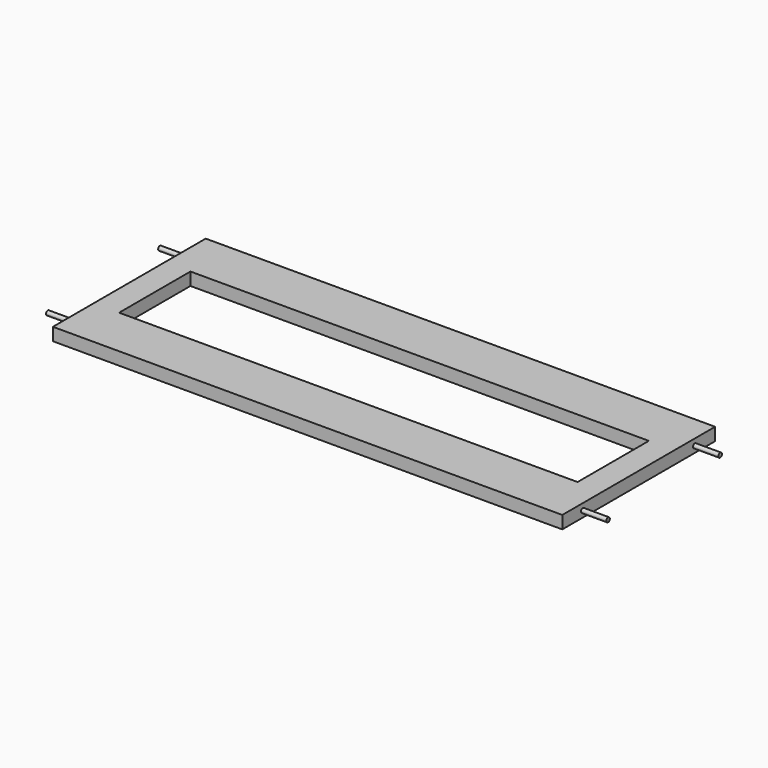
from build123d import *

# Parameters (mm, degrees)
SKETCH013_W             = 400
SKETCH013_H             = 150
SKETCH013_W_2           = 360
SKETCH013_H_2           = 70
PAD013_DEPTH            = 10
CYLINDER013_R           = 1.7
CYLINDER013_DEPTH       = 20
CYLINDER013_PITCH_ANGLE = 90
CYLINDER015_R           = 1.7
CYLINDER015_DEPTH       = 20
CYLINDER015_PITCH_ANGLE = 90
CYLINDER016_R           = 1.7
CYLINDER016_DEPTH       = 20
CYLINDER016_PITCH_ANGLE = 90
CYLINDER017_R           = 1.7
CYLINDER017_DEPTH       = 20
CYLINDER017_PITCH_ANGLE = 90


with BuildPart() as pad013:
    # Sketch013 → Pad013 (new body)
    with BuildSketch(Plane(origin=(0, -10, 60), x_dir=(1, 0, 0), z_dir=(0, 0, 1))):
        Rectangle(SKETCH013_W, SKETCH013_H)
        Rectangle(SKETCH013_W_2, SKETCH013_H_2, mode=Mode.SUBTRACT)
    extrude(amount=PAD013_DEPTH)


with BuildPart() as cylinder013:
    # Cylinder013 → Cylinder013 (new body)
    with BuildSketch(Plane.XY):
        Circle(CYLINDER013_R)
    extrude(amount=CYLINDER013_DEPTH)


with BuildPart() as cylinder013_1:
    # Cylinder013 pitch: moved
    add(cylinder013.part.rotate(Axis((0, 0, 0), (0, 1, 0)), CYLINDER013_PITCH_ANGLE))


with BuildPart() as cylinder013_2:
    # Cylinder013 placement: moved
    add(cylinder013_1.part.moved(Location((200, -65, 65))))


with BuildPart() as cylinder015:
    # Cylinder015 → Cylinder015 (new body)
    with BuildSketch(Plane.XY):
        Circle(CYLINDER015_R)
    extrude(amount=CYLINDER015_DEPTH)


with BuildPart() as cylinder015_1:
    # Cylinder015 pitch: moved
    add(cylinder015.part.rotate(Axis((0, 0, 0), (0, 1, 0)), CYLINDER015_PITCH_ANGLE))


with BuildPart() as cylinder015_2:
    # Cylinder015 placement: moved
    add(cylinder015_1.part.moved(Location((-220, -65, 65))))


with BuildPart() as cylinder016:
    # Cylinder016 → Cylinder016 (new body)
    with BuildSketch(Plane.XY):
        Circle(CYLINDER016_R)
    extrude(amount=CYLINDER016_DEPTH)


with BuildPart() as cylinder016_1:
    # Cylinder016 pitch: moved
    add(cylinder016.part.rotate(Axis((0, 0, 0), (0, 1, 0)), CYLINDER016_PITCH_ANGLE))


with BuildPart() as cylinder016_2:
    # Cylinder016 placement: moved
    add(cylinder016_1.part.moved(Location((-220, 45, 65))))


with BuildPart() as fusion005:
    # Cylinder017 → Cylinder017 (new body)
    with BuildSketch(Plane.XY):
        Circle(CYLINDER017_R)
    extrude(amount=CYLINDER017_DEPTH)


with BuildPart() as fusion005_1:
    # Cylinder017 pitch: moved
    add(fusion005.part.rotate(Axis((0, 0, 0), (0, 1, 0)), CYLINDER017_PITCH_ANGLE))


with BuildPart() as fusion005_2:
    # Cylinder017 placement: moved
    add(fusion005_1.part.moved(Location((200, 45, 65))))

    # Fusion004: union Cylinder013, Cylinder015, Cylinder016
    add(cylinder013_2.part)
    add(cylinder015_2.part)
    add(cylinder016_2.part)

    # Fusion005: union Pad013
    add(pad013.part)


solid = fusion005_2.part
